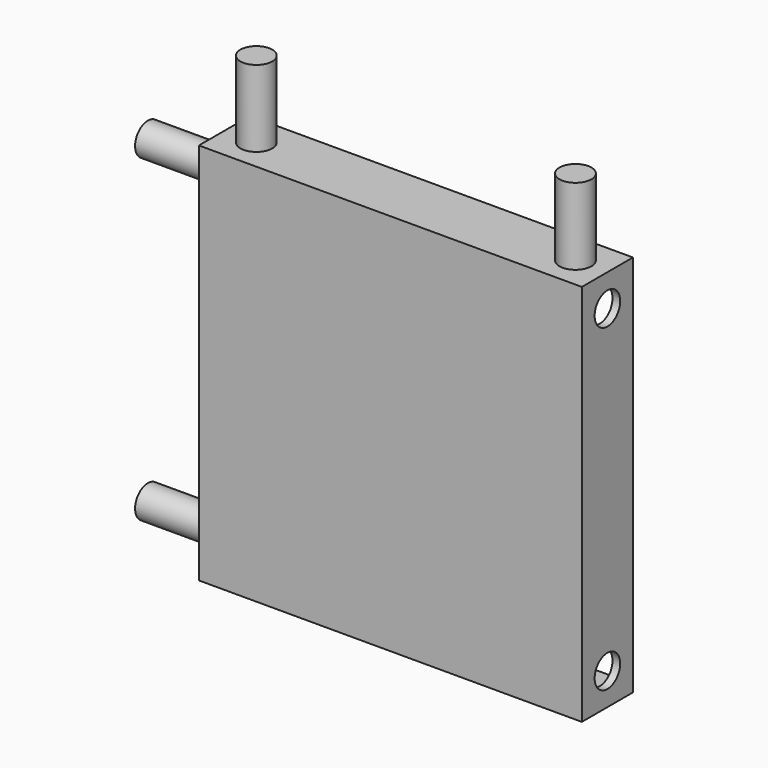
from build123d import *

# Parameters (mm, degrees)
F0_W      = 150
F0_H      = 150
F1_DEPTH  = 25
F2_T      = -3
F3_R      = 6.25
F4_DEPTH  = 30
F5_R      = 6.25
F6_DEPTH  = 25
F7_R      = 6.25
F8_DEPTH  = 30
F9_R      = 6.25
F10_DEPTH = 30


with BuildPart() as f1:
    # F0 (on Front) → F1 (new body)
    with BuildSketch(Plane.XZ):
        with Locations((-12.459678, 3.580103)):
            Rectangle(F0_W, F0_H)
    extrude(amount=F1_DEPTH)

    # F2
    f2_openings = [f1.faces().sort_by_distance(p)[0] for p in [
        (-12.459678, 0, 3.580103),
    ]]
    offset(amount=F2_T, openings=f2_openings)

    # F3 (on face) → F4 (join)
    with BuildSketch(Plane.XY.offset(78.580103)):
        with Locations((-74.959678, -12.5)):
            Circle(F3_R)
        with Locations((50.040322, -12.5)):
            Circle(F3_R)
    extrude(amount=F4_DEPTH)

    # F5 (on face) → F6 (cut)
    with BuildSketch(Plane(origin=(0, 0, -71.419897), x_dir=(1, 0, 0), z_dir=(0, 0, -1))):
        with Locations((-74.959678, 12.5)):
            Circle(F5_R)
        with Locations((50.040322, 12.5)):
            Circle(F5_R)
    extrude(amount=-F6_DEPTH, mode=Mode.SUBTRACT)

    # F7 (on face) → F8 (join)
    with BuildSketch(Plane(origin=(-87.459678, 0, 0), x_dir=(0, -1, 0), z_dir=(-1, 0, 0))):
        with Locations((12.5, 66.080103)):
            Circle(F7_R)
        with Locations((12.5, -58.919897)):
            Circle(F7_R)
    extrude(amount=F8_DEPTH)

    # F9 (on face) → F10 (cut)
    with BuildSketch(Plane.YZ.offset(62.540322)):
        with Locations((-12.5, 66.080103)):
            Circle(F9_R)
        with Locations((-12.5, -58.919897)):
            Circle(F9_R)
    extrude(amount=-F10_DEPTH, mode=Mode.SUBTRACT)


solid = f1.part
